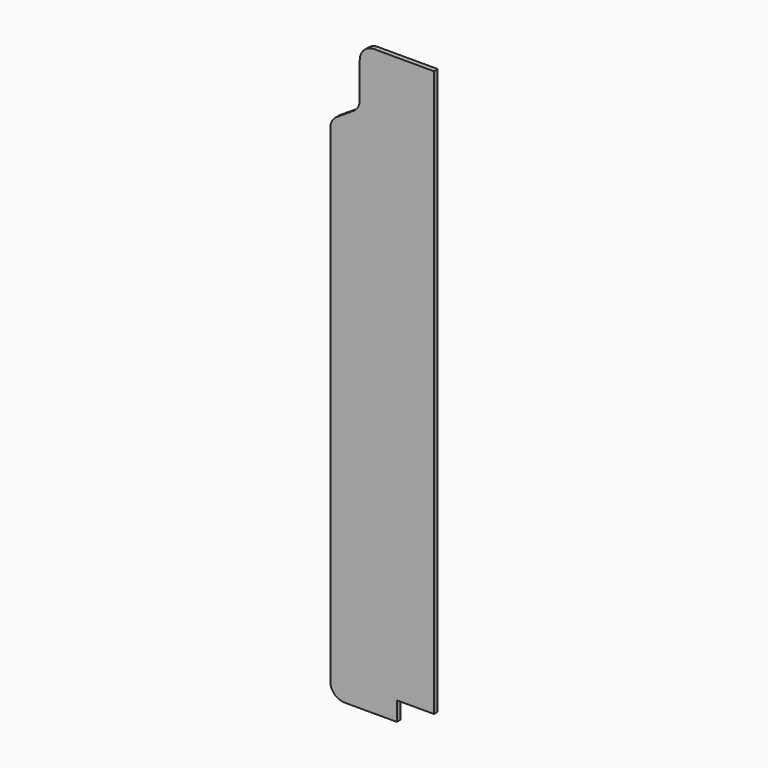
from build123d import *

# Parameters (mm, degrees)
F1_DEPTH = 5


with BuildPart() as f1:
    # F0 (on Front) → F1 (new body)
    with BuildSketch(Plane.XZ):
        with BuildLine():
            Line((-39, 0), (0, 0))
            Line((0, 0), (0, 595))
            Line((0, 595), (-63, 595))
            ThreePointArc((-63, 595), (-73.606602, 590.606602), (-78, 580))
            Line((-78, 580), (-78, 543.173419))
            ThreePointArc((-78, 543.173419), (-79.828467, 535.996322), (-84.868097, 530.56897))
            Line((-84.868097, 530.56897), (-102.131903, 519.43103))
            ThreePointArc((-102.131903, 519.43103), (-107.171533, 514.003678), (-109, 506.826581))
            Line((-109, 506.826581), (-109, -5))
            ThreePointArc((-109, -5), (-104.606602, -15.606602), (-94, -20))
            Line((-94, -20), (-39, -20))
            Line((-39, -20), (-39, 0))
        make_face()
    extrude(amount=-F1_DEPTH)


solid = f1.part
